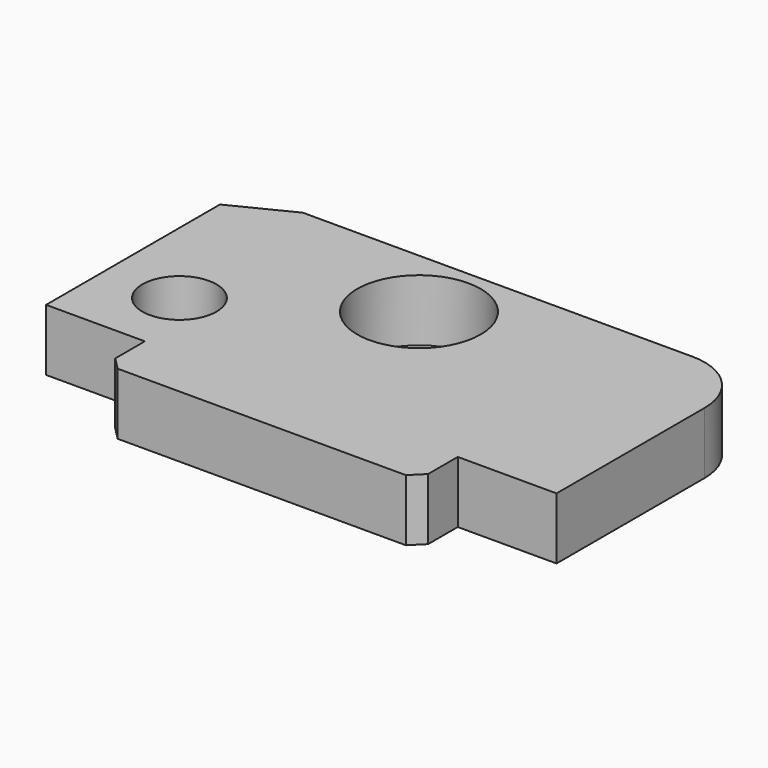
from build123d import *

# Parameters (mm, degrees)
F0_R     = 15
F0_R_2   = 25
F1_DEPTH = 25
F2_SIZE  = 5


with BuildPart() as f1:
    # F0 (on Top) → F1 (new body)
    with BuildSketch(Plane.XY):
        with BuildLine():
            Line((-23.352277, 62.976109), (-47.352277, 50.976109))
            Line((-47.352277, 50.976109), (-47.352277, -7.023891))
            Line((-47.352277, -7.023891), (-47.352277, -37.023891))
            Line((-47.352277, -37.023891), (-17.352277, -37.023891))
            Line((-17.352277, -37.023891), (-7.352277, -37.023891))
            Line((-7.352277, -37.023891), (-7.352277, -57.023891))
            Line((-7.352277, -57.023891), (119.360484, -57.023891))
            Line((119.360484, -57.023891), (119.360484, -37.023891))
            Line((119.360484, -37.023891), (159.360484, -37.023891))
            Line((159.360484, -37.023891), (159.360484, 37.976109))
            ThreePointArc((159.360484, 37.976109), (152.038154, 55.653779), (134.360484, 62.976109))
            Line((134.360484, 62.976109), (-23.352277, 62.976109))
        make_face()
        with Locations((-17.352277, -7.023891)):
            Circle(F0_R, mode=Mode.SUBTRACT)
        with Locations((47.647723, 32.976109)):
            Circle(F0_R_2, mode=Mode.SUBTRACT)
    extrude(amount=F1_DEPTH)

    # F2
    f2_edges = [f1.edges().sort_by_distance(p)[0] for p in [
        (-7.352277, -57.023891, 12.5),
        (119.360484, -57.023891, 12.5),
    ]]
    chamfer(f2_edges, length=F2_SIZE)


solid = f1.part
